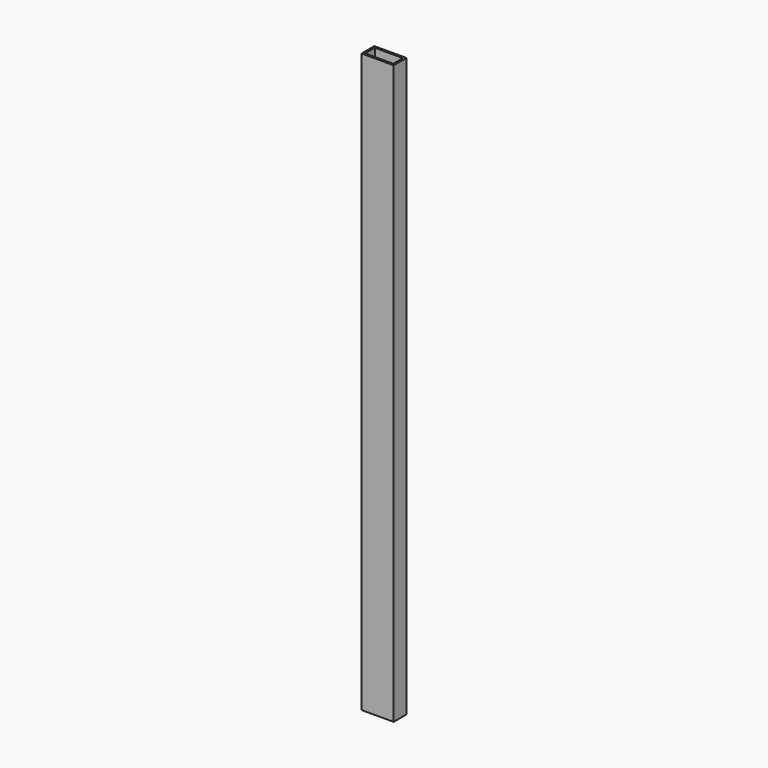
from build123d import *

# Parameters (mm, degrees)
F0_W     = 50.8
F0_H     = 25.4
F1_DEPTH = 457.2
F2_W     = 44.45
F2_H     = 19.05
F3_DEPTH = 457.2
F4_DEPTH = 914.4


with BuildPart() as f1:
    # F0 (on Top) → F1 (new body, symmetric)
    with BuildSketch(Plane.XY):
        Rectangle(F0_W, F0_H)
    extrude(amount=F1_DEPTH, both=True)

    # F2 (on face) → F3 (cut, symmetric)
    with BuildSketch(Plane.XY.offset(457.2)):
        Rectangle(F2_W, F2_H)
    extrude(amount=F3_DEPTH, both=True, mode=Mode.SUBTRACT)

    # F4 (cut): a face of the model
    f4_faces = [f1.faces().sort_by_distance(p)[0] for p in [
        (0, 0, 0),
    ]]
    extrude(f4_faces, amount=-F4_DEPTH, mode=Mode.SUBTRACT)


solid = f1.part
